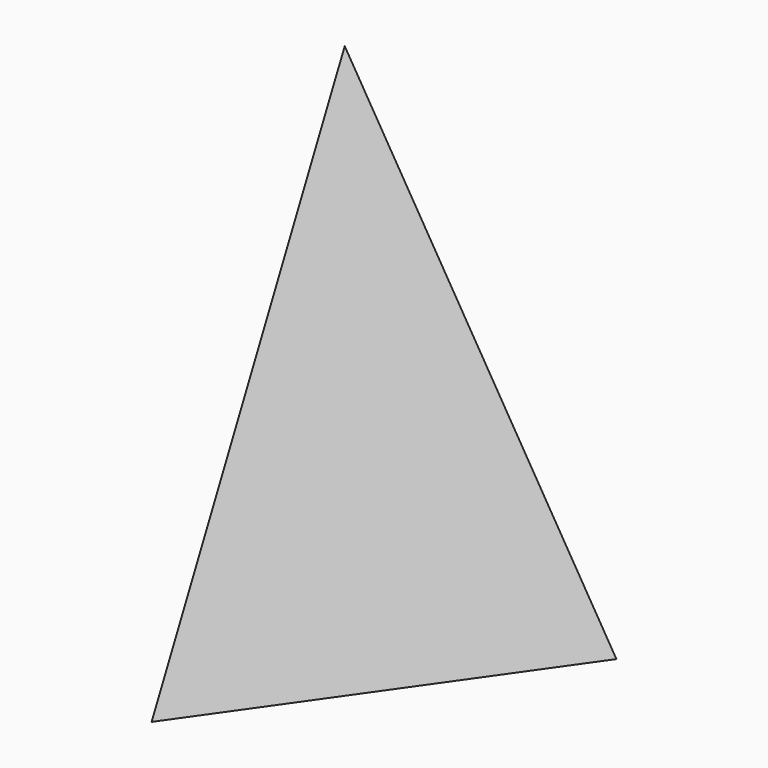
from build123d import *


with BuildPart() as f3:
    # F0 (on Top) → F3 section 0
    with BuildSketch(Plane.XY, mode=Mode.PRIVATE) as f3_s0:
        Polygon((49.026511, 22.832147), (-44.286475, 31.042131), (-4.740036, -53.874277), align=None)
    loft([f3_s0.sketch, Vertex(0, 0, 127)])


solid = f3.part
